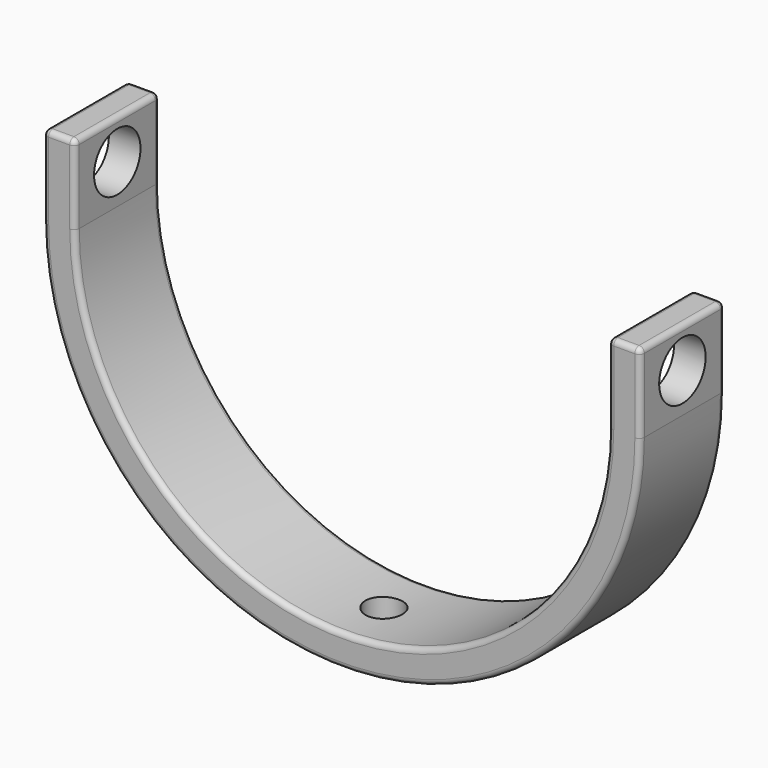
from build123d import *

# Parameters (mm, degrees)
F1_DEPTH = 10
F2_R     = 1
F4_R     = 5.5
F5_DEPTH = 113.001
F7_R     = 3.5
F8_DEPTH = 90.501
F9_R     = 1
F10_R    = 1


with BuildPart() as f1:
    # F0 (on Front) → F1 (new body, symmetric)
    with BuildSketch(Plane.XZ):
        with BuildLine():
            Line((-56.5, 65.5), (-56.5, 50.5))
            ThreePointArc((-56.5, 50.5), (0, -6), (56.5, 50.5))
            Line((56.5, 50.5), (56.5, 65.5))
            Line((56.5, 65.5), (50.5000007153, 65.5))
            Line((50.5000007153, 65.5), (50.5000007153, 50.5))
            ThreePointArc((50.5000007153, 50.5), (7.153e-07, 0), (-50.4999992847, 50.5))
            Line((-50.4999992847, 50.5), (-50.4999992847, 65.5))
            Line((-50.4999992847, 65.5), (-56.5, 65.5))
        make_face()
    extrude(amount=F1_DEPTH, both=True)

    # F2
    f2_edges = [f1.edges().sort_by_distance(p)[0] for p in [
        (1e-06, -10, 0),
        (-50.499999, -10, 58),
        (50.500001, -10, 58),
        (0, -10, -6),
        (-56.5, -10, 58),
        (-50.499999, 10, 58),
        (1e-06, 10, 0),
        (50.500001, 10, 58),
        (56.5, 10, 58),
        (0, 10, -6),
        (-56.5, 10, 58),
    ]]
    fillet(f2_edges, radius=F2_R)

    # F4 (on offset) → F5 (cut, through all)
    with BuildSketch(Plane.YZ.offset(56.5)):
        with Locations((0, 57.9845793545)):
            Circle(F4_R)
    extrude(amount=-F5_DEPTH, mode=Mode.SUBTRACT)

    # F7 (on offset) → F8 (cut, through all)
    with BuildSketch(Plane.XY.offset(-25)):
        Circle(F7_R)
    extrude(amount=F8_DEPTH, mode=Mode.SUBTRACT)

    # F9
    f9_edges = [f1.edges().sort_by_distance(p)[0] for p in [
        (-50.499999, 0, 65.5),
        (-50.792893, -9.707107, 65.5),
        (-53.5, -10, 65.5),
        (-56.5, 0, 65.5),
        (-56.207107, -9.707107, 65.5),
        (-56.207107, 9.707107, 65.5),
        (-53.5, 10, 65.5),
        (-50.792893, 9.707107, 65.5),
    ]]
    fillet(f9_edges, radius=F9_R)

    # F10
    f10_edges = [f1.edges().sort_by_distance(p)[0] for p in [
        (56.5, 0, 65.5),
        (56.207107, -9.707107, 65.5),
        (53.5, -10, 65.5),
        (50.792894, -9.707107, 65.5),
        (50.500001, 0, 65.5),
        (50.792894, 9.707107, 65.5),
        (53.5, 10, 65.5),
        (56.207107, 9.707107, 65.5),
    ]]
    fillet(f10_edges, radius=F10_R)


solid = f1.part
